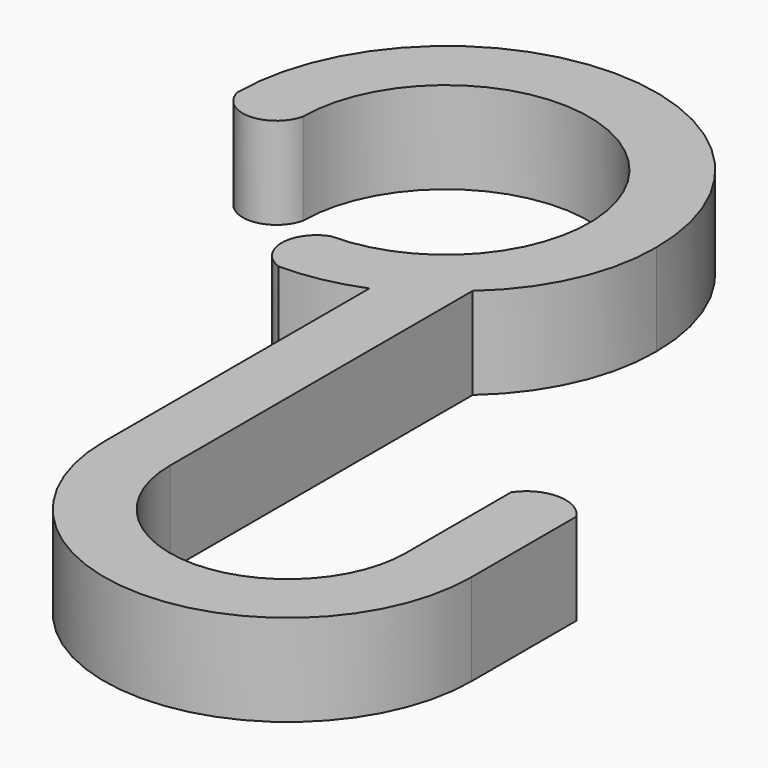
from build123d import *

# Parameters (mm, degrees)
F1_DEPTH = 8.89


with BuildPart() as f1:
    # F0 (on Top) → F1 (new body)
    with BuildSketch(Plane.XY):
        with BuildLine():
            ThreePointArc((-31.581117, 0.265729), (-27.699647, 0.639888), (-23.961117, 1.748585))
            Line((-23.961117, 1.748585), (-23.961117, -30.38213))
            ThreePointArc((-23.961117, -30.38213), (-6.162074, -48.181174), (11.636969, -30.38213))
            Line((11.636969, -30.38213), (11.636969, -17.645674))
            ThreePointArc((11.636969, -17.645674), (8.461969, -15.95073), (5.286969, -17.645674))
            Line((5.286969, -17.645674), (5.286969, -30.38213))
            ThreePointArc((5.286969, -30.38213), (-6.162074, -41.831174), (-17.611117, -30.38213))
            Line((-17.611117, -30.38213), (-17.611117, 6.329739))
            ThreePointArc((-17.611117, 6.329739), (-12.838442, 12.752636), (-11.20179, 20.585477))
            ThreePointArc((-11.20179, 20.585477), (-31.52179, 40.905477), (-51.84179, 20.585477))
            ThreePointArc((-51.84179, 20.585477), (-48.66679, 18.093724), (-45.49179, 20.585477))
            ThreePointArc((-45.49179, 20.585477), (-21.723878, 30.34208), (-31.581117, 6.615729))
            ThreePointArc((-31.581117, 6.615729), (-33.818332, 3.440729), (-31.581117, 0.265729))
        make_face()
    extrude(amount=F1_DEPTH)


solid = f1.part
